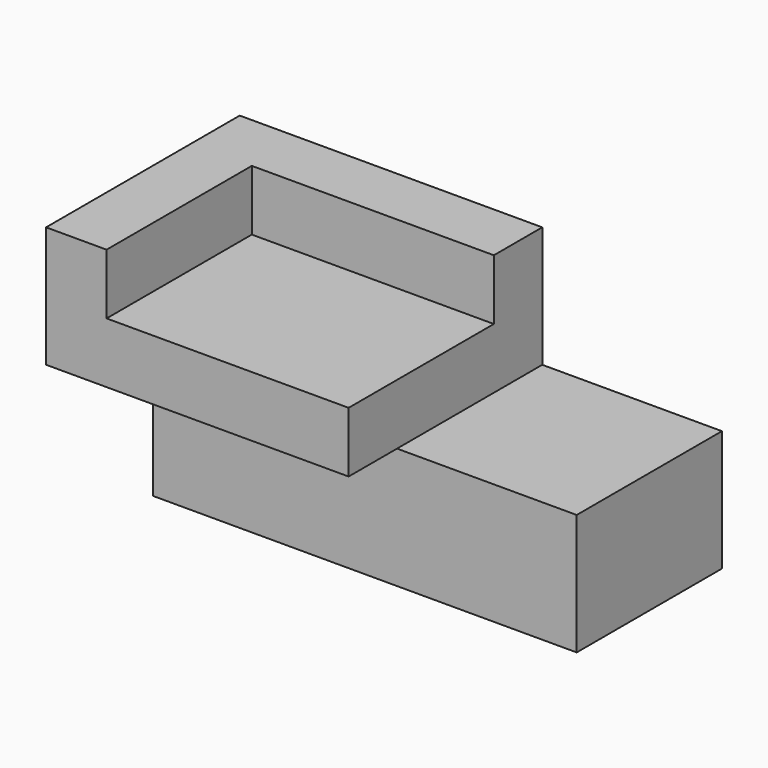
from build123d import *

# Parameters (mm, degrees)
F0_W     = 203.2
F0_H     = 101.6
F1_DEPTH = 76.2
F2_DEPTH = 50.8
F3_W     = 127
F3_H     = 101.6
F4_DEPTH = 50.8
F5_DEPTH = 25.4
F6_DEPTH = 25.4
F7_W     = 101.6
F7_H     = 76.2
F8_DEPTH = 25.4


with BuildPart() as f1:
    # F0 (on Front) → F1 (new body)
    with BuildSketch(Plane.XZ):
        with Locations((101.6, 50.8)):
            Rectangle(F0_W, F0_H)
        with Locations((101.6, 50.8)):
            Rectangle(F0_W, F0_H)
    extrude(amount=F1_DEPTH)

    # F2 (cut): a face of the model
    f2_faces = [f1.faces().sort_by_distance(p)[0] for p in [
        (101.6, -38.1, 101.6),
    ]]
    extrude(f2_faces, amount=-F2_DEPTH, mode=Mode.SUBTRACT)

    # F3 (on face) → F4 (join)
    with BuildSketch(Plane.XY.offset(50.8)):
        with Locations((38.8798168193, -50.8)):
            Rectangle(F3_W, F3_H)
    extrude(amount=F4_DEPTH)

    # F5 (add): a face of the model
    f5_faces = [f1.faces().sort_by_distance(p)[0] for p in [
        (203.2, -38.1, 25.4),
    ]]
    extrude(f5_faces, amount=-F5_DEPTH)

    # F6 (cut): a face of the model
    f6_faces = [f1.faces().sort_by_distance(p)[0] for p in [
        (203.2, -38.1, 25.4),
    ]]
    extrude(f6_faces, amount=-F6_DEPTH, mode=Mode.SUBTRACT)

    # F7 (on face) → F8 (cut)
    with BuildSketch(Plane.XY.offset(101.6)):
        with Locations((51.5798168193, -63.5)):
            Rectangle(F7_W, F7_H)
    extrude(amount=-F8_DEPTH, mode=Mode.SUBTRACT)


solid = f1.part
